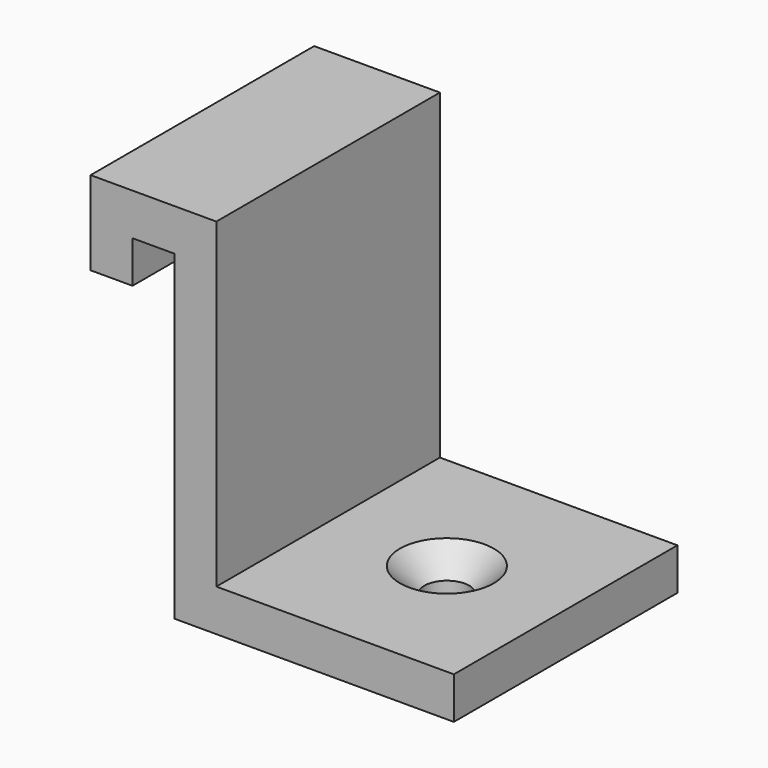
from build123d import *

# Parameters (mm, degrees)
F1_DEPTH       = 20
F3_D           = 3.2
F3_CSINK_D     = 6.72
F3_CSINK_ANGLE = 90


with BuildPart() as f1:
    # F0 (on Front) → F1 (new body)
    with BuildSketch(Plane.XZ):
        Polygon((0, 23), (0, 0), (20, 0), (20, 3), (3, 3), (3, 26), (-6, 26), (-6, 20), (-3, 20), (-3, 23), align=None)
    extrude(amount=F1_DEPTH)

    # F3 (through all)
    with Locations(Plane.XY.offset(3)):
        with Locations((11.5, -10)):
            CounterSinkHole(F3_D / 2, F3_CSINK_D / 2, counter_sink_angle=F3_CSINK_ANGLE)


solid = f1.part
